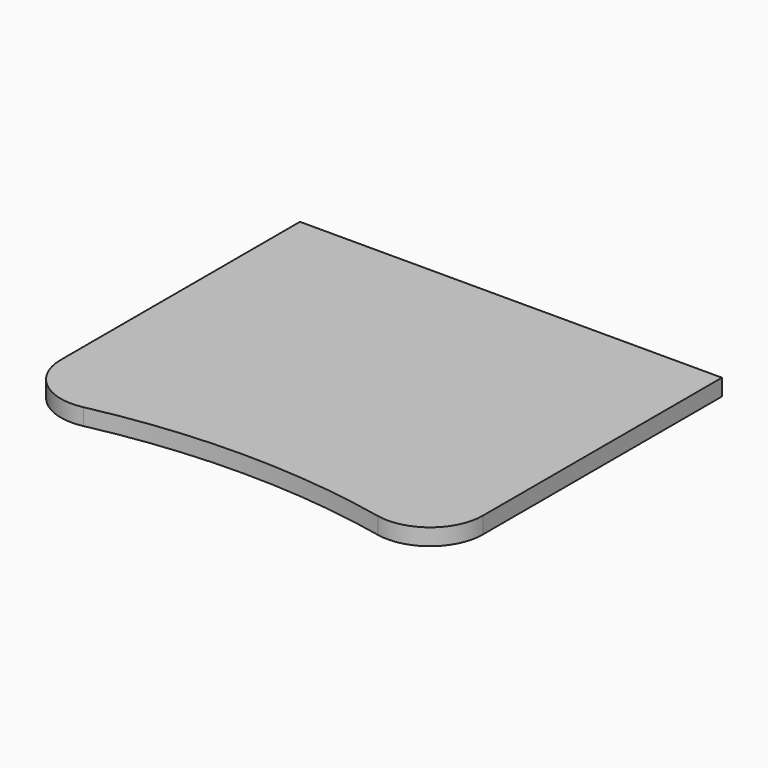
from build123d import *

# Parameters (mm, degrees)
F1_DEPTH = 12


with BuildPart() as f1:
    # F0 (on Top) → F1 (new body)
    with BuildSketch(Plane.XY):
        with BuildLine():
            Line((152.4, 127), (-152.4, 127))
            Line((-152.4, 127), (-152.4, -88.9))
            ThreePointArc((-152.4, -88.9), (-138.25605, -118.5263), (-106.325581, -126.156122))
            ThreePointArc((-106.325581, -126.156122), (0, -114.904419), (106.325581, -126.156122))
            ThreePointArc((106.325581, -126.156122), (138.25605, -118.5263), (152.4, -88.9))
            Line((152.4, -88.9), (152.4, 127))
        make_face()
    extrude(amount=F1_DEPTH)


solid = f1.part
